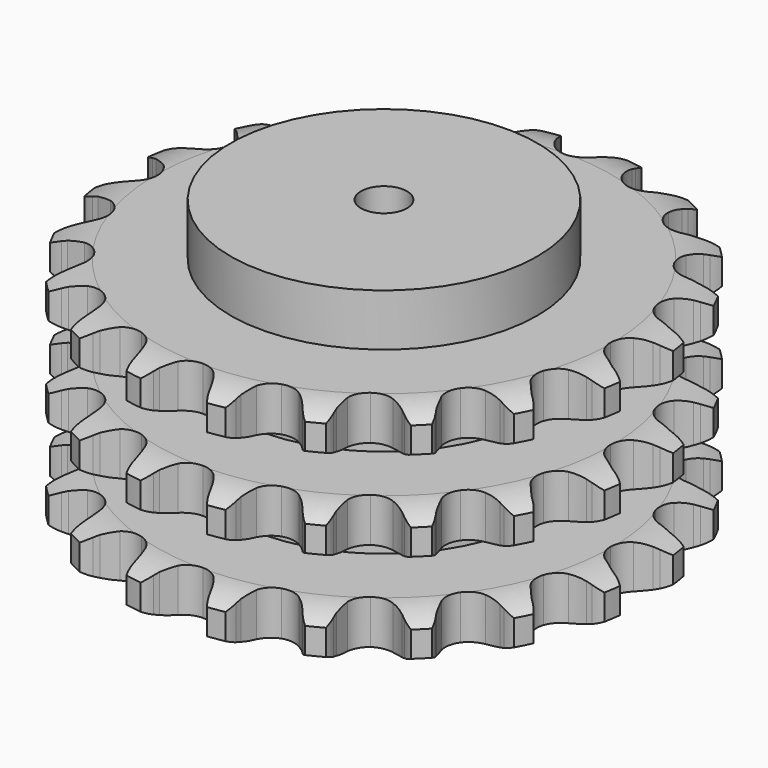
from build123d import *

# Parameters (mm, degrees)
PAD_DEPTH         = 146
SKETCH001_R       = 100
PAD001_DEPTH      = 180
SKETCH002_R       = 15
POCKET_DEPTH      = 0.001
POCKET_DEPTH_BACK = 180.001


with BuildPart() as part:
    # Sprocket → Pad (new body)
    with BuildSketch(Plane.XY):
        with BuildLine():
            ThreePointArc((-27.991264, 176.729888), (-22.13478, 171.8266), (-18.099926, 165.341187))
            Line((-18.099926, 165.341187), (-16.694116, 161.996897))
            ThreePointArc((-16.694116, 161.996897), (-14.433843, 157.483236), (-11.596465, 153.308161))
            ThreePointArc((-11.596465, 153.308161), (-6.451125, 149.141546), (0, 147.652187))
            ThreePointArc((0, 147.652187), (6.451125, 149.141546), (11.596465, 153.308161))
            ThreePointArc((11.596465, 153.308161), (14.433843, 157.483236), (16.694116, 161.996897))
            Line((16.694116, 161.996897), (18.099926, 165.341187))
            ThreePointArc((18.099926, 165.341187), (22.13478, 171.8266), (27.991264, 176.729888))
            ThreePointArc((27.991264, 176.729888), (32.045912, 170.256831), (33.879184, 162.841998))
            Line((33.879184, 162.841998), (34.182746, 159.22697))
            ThreePointArc((34.182746, 159.22697), (34.937596, 154.235761), (36.345934, 149.38823))
            ThreePointArc((36.345934, 149.38823), (39.951888, 143.835547), (45.627035, 140.425574))
            ThreePointArc((45.627035, 140.425574), (52.222656, 139.848532), (58.40372, 142.22122))
            Line((58.40372, 142.22122), (65.936842, 148.909439))
            ThreePointArc((65.936842, 148.909439), (67.089348, 150.310775), (68.307289, 151.655628))
            ThreePointArc((68.307289, 151.655628), (74.148767, 156.576784), (81.233813, 159.430335))
            ThreePointArc((81.233813, 159.430335), (83.089728, 152.021137), (82.541963, 144.402699))
            Line((82.541963, 144.402699), (81.713563, 140.870798))
            ThreePointArc((81.713563, 140.870798), (80.889099, 135.890614), (80.730539, 130.845138))
            ThreePointArc((80.730539, 130.845138), (82.444132, 124.449921), (86.787778, 119.453128))
            ThreePointArc((86.787778, 119.453128), (92.882271, 116.86617), (99.494013, 117.212676))
            Line((99.494013, 117.212676), (108.725211, 121.245688))
            ThreePointArc((108.725211, 121.245688), (110.254346, 122.222293), (111.828259, 123.12496))
            ThreePointArc((111.828259, 123.12496), (118.904555, 126.000142), (126.52463, 126.52463))
            ThreePointArc((126.52463, 126.52463), (126.000142, 118.904555), (123.12496, 111.828259))
            Line((123.12496, 111.828259), (121.245688, 108.725211))
            ThreePointArc((121.245688, 108.725211), (118.922614, 104.243548), (117.212676, 99.494013))
            ThreePointArc((117.212676, 99.494013), (116.86617, 92.882271), (119.453128, 86.787778))
            ThreePointArc((119.453128, 86.787778), (124.449921, 82.444132), (130.845138, 80.730539))
            Line((130.845138, 80.730539), (140.870798, 81.713563))
            ThreePointArc((140.870798, 81.713563), (142.626879, 82.169842), (144.402699, 82.541963))
            ThreePointArc((144.402699, 82.541963), (152.021137, 83.089728), (159.430335, 81.233813))
            ThreePointArc((159.430335, 81.233813), (156.576784, 74.148767), (151.655628, 68.307289))
            Line((151.655628, 68.307289), (148.909439, 65.936842))
            ThreePointArc((148.909439, 65.936842), (145.315155, 62.392397), (142.22122, 58.40372))
            ThreePointArc((142.22122, 58.40372), (139.848532, 52.222656), (140.425574, 45.627035))
            ThreePointArc((140.425574, 45.627035), (143.835547, 39.951888), (149.38823, 36.345934))
            Line((149.38823, 36.345934), (159.22697, 34.182746))
            ThreePointArc((159.22697, 34.182746), (161.038101, 34.074034), (162.841998, 33.879184))
            ThreePointArc((162.841998, 33.879184), (170.256831, 32.045912), (176.729888, 27.991264))
            ThreePointArc((176.729888, 27.991264), (171.8266, 22.13478), (165.341187, 18.099926))
            Line((165.341187, 18.099926), (161.996897, 16.694116))
            ThreePointArc((161.996897, 16.694116), (157.483236, 14.433843), (153.308161, 11.596465))
            ThreePointArc((153.308161, 11.596465), (149.141546, 6.451125), (147.652187, 0))
            ThreePointArc((147.652187, 0), (149.141546, -6.451125), (153.308161, -11.596465))
            Line((153.308161, -11.596465), (161.996897, -16.694116))
            ThreePointArc((161.996897, -16.694116), (163.68579, -17.357178), (165.341187, -18.099926))
            ThreePointArc((165.341187, -18.099926), (171.8266, -22.13478), (176.729888, -27.991264))
            ThreePointArc((176.729888, -27.991264), (170.256831, -32.045912), (162.841998, -33.879184))
            Line((162.841998, -33.879184), (159.22697, -34.182746))
            ThreePointArc((159.22697, -34.182746), (154.235761, -34.937596), (149.38823, -36.345934))
            ThreePointArc((149.38823, -36.345934), (143.835547, -39.951888), (140.425574, -45.627035))
            ThreePointArc((140.425574, -45.627035), (139.848532, -52.222656), (142.22122, -58.40372))
            Line((142.22122, -58.40372), (148.909439, -65.936842))
            ThreePointArc((148.909439, -65.936842), (150.310775, -67.089348), (151.655628, -68.307289))
            ThreePointArc((151.655628, -68.307289), (156.576784, -74.148767), (159.430335, -81.233813))
            ThreePointArc((159.430335, -81.233813), (152.021137, -83.089728), (144.402699, -82.541963))
            Line((144.402699, -82.541963), (140.870798, -81.713563))
            ThreePointArc((140.870798, -81.713563), (135.890614, -80.889099), (130.845138, -80.730539))
            ThreePointArc((130.845138, -80.730539), (124.449921, -82.444132), (119.453128, -86.787778))
            ThreePointArc((119.453128, -86.787778), (116.86617, -92.882271), (117.212676, -99.494013))
            Line((117.212676, -99.494013), (121.245688, -108.725211))
            ThreePointArc((121.245688, -108.725211), (122.222293, -110.254346), (123.12496, -111.828259))
            ThreePointArc((123.12496, -111.828259), (126.000142, -118.904555), (126.52463, -126.52463))
            ThreePointArc((126.52463, -126.52463), (118.904555, -126.000142), (111.828259, -123.12496))
            Line((111.828259, -123.12496), (108.725211, -121.245688))
            ThreePointArc((108.725211, -121.245688), (104.243548, -118.922614), (99.494013, -117.212676))
            ThreePointArc((99.494013, -117.212676), (92.882271, -116.86617), (86.787778, -119.453128))
            ThreePointArc((86.787778, -119.453128), (82.444132, -124.449921), (80.730539, -130.845138))
            Line((80.730539, -130.845138), (81.713563, -140.870798))
            ThreePointArc((81.713563, -140.870798), (82.169842, -142.626879), (82.541963, -144.402699))
            ThreePointArc((82.541963, -144.402699), (83.089728, -152.021137), (81.233813, -159.430335))
            ThreePointArc((81.233813, -159.430335), (74.148767, -156.576784), (68.307289, -151.655628))
            Line((68.307289, -151.655628), (65.936842, -148.909439))
            ThreePointArc((65.936842, -148.909439), (62.392397, -145.315155), (58.40372, -142.22122))
            ThreePointArc((58.40372, -142.22122), (52.222656, -139.848532), (45.627035, -140.425574))
            ThreePointArc((45.627035, -140.425574), (39.951888, -143.835547), (36.345934, -149.38823))
            Line((36.345934, -149.38823), (34.182746, -159.22697))
            ThreePointArc((34.182746, -159.22697), (34.074034, -161.038101), (33.879184, -162.841998))
            ThreePointArc((33.879184, -162.841998), (32.045912, -170.256831), (27.991264, -176.729888))
            ThreePointArc((27.991264, -176.729888), (22.13478, -171.8266), (18.099926, -165.341187))
            Line((18.099926, -165.341187), (16.694116, -161.996897))
            ThreePointArc((16.694116, -161.996897), (14.433843, -157.483236), (11.596465, -153.308161))
            ThreePointArc((11.596465, -153.308161), (6.451125, -149.141546), (0, -147.652187))
            ThreePointArc((0, -147.652187), (-6.451125, -149.141546), (-11.596465, -153.308161))
            Line((-11.596465, -153.308161), (-16.694116, -161.996897))
            ThreePointArc((-16.694116, -161.996897), (-17.357178, -163.68579), (-18.099926, -165.341187))
            ThreePointArc((-18.099926, -165.341187), (-22.13478, -171.8266), (-27.991264, -176.729888))
            ThreePointArc((-27.991264, -176.729888), (-32.045912, -170.256831), (-33.879184, -162.841998))
            Line((-33.879184, -162.841998), (-34.182746, -159.22697))
            ThreePointArc((-34.182746, -159.22697), (-34.937596, -154.235761), (-36.345934, -149.38823))
            ThreePointArc((-36.345934, -149.38823), (-39.951888, -143.835547), (-45.627035, -140.425574))
            ThreePointArc((-45.627035, -140.425574), (-52.222656, -139.848532), (-58.40372, -142.22122))
            Line((-58.40372, -142.22122), (-65.936842, -148.909439))
            ThreePointArc((-65.936842, -148.909439), (-67.089348, -150.310775), (-68.307289, -151.655628))
            ThreePointArc((-68.307289, -151.655628), (-74.148767, -156.576784), (-81.233813, -159.430335))
            ThreePointArc((-81.233813, -159.430335), (-83.089728, -152.021137), (-82.541963, -144.402699))
            Line((-82.541963, -144.402699), (-81.713563, -140.870798))
            ThreePointArc((-81.713563, -140.870798), (-80.889099, -135.890614), (-80.730539, -130.845138))
            ThreePointArc((-80.730539, -130.845138), (-82.444132, -124.449921), (-86.787778, -119.453128))
            ThreePointArc((-86.787778, -119.453128), (-92.882271, -116.86617), (-99.494013, -117.212676))
            Line((-99.494013, -117.212676), (-108.725211, -121.245688))
            ThreePointArc((-108.725211, -121.245688), (-110.254346, -122.222293), (-111.828259, -123.12496))
            ThreePointArc((-111.828259, -123.12496), (-118.904555, -126.000142), (-126.52463, -126.52463))
            ThreePointArc((-126.52463, -126.52463), (-126.000142, -118.904555), (-123.12496, -111.828259))
            Line((-123.12496, -111.828259), (-121.245688, -108.725211))
            ThreePointArc((-121.245688, -108.725211), (-118.922614, -104.243548), (-117.212676, -99.494013))
            ThreePointArc((-117.212676, -99.494013), (-116.86617, -92.882271), (-119.453128, -86.787778))
            ThreePointArc((-119.453128, -86.787778), (-124.449921, -82.444132), (-130.845138, -80.730539))
            Line((-130.845138, -80.730539), (-140.870798, -81.713563))
            ThreePointArc((-140.870798, -81.713563), (-142.626879, -82.169842), (-144.402699, -82.541963))
            ThreePointArc((-144.402699, -82.541963), (-152.021137, -83.089728), (-159.430335, -81.233813))
            ThreePointArc((-159.430335, -81.233813), (-156.576784, -74.148767), (-151.655628, -68.307289))
            Line((-151.655628, -68.307289), (-148.909439, -65.936842))
            ThreePointArc((-148.909439, -65.936842), (-145.315155, -62.392397), (-142.22122, -58.40372))
            ThreePointArc((-142.22122, -58.40372), (-139.848532, -52.222656), (-140.425574, -45.627035))
            ThreePointArc((-140.425574, -45.627035), (-143.835547, -39.951888), (-149.38823, -36.345934))
            Line((-149.38823, -36.345934), (-159.22697, -34.182746))
            ThreePointArc((-159.22697, -34.182746), (-161.038101, -34.074034), (-162.841998, -33.879184))
            ThreePointArc((-162.841998, -33.879184), (-170.256831, -32.045912), (-176.729888, -27.991264))
            ThreePointArc((-176.729888, -27.991264), (-171.8266, -22.13478), (-165.341187, -18.099926))
            Line((-165.341187, -18.099926), (-161.996897, -16.694116))
            ThreePointArc((-161.996897, -16.694116), (-157.483236, -14.433843), (-153.308161, -11.596465))
            ThreePointArc((-153.308161, -11.596465), (-149.141546, -6.451125), (-147.652187, 0))
            ThreePointArc((-147.652187, 0), (-149.141546, 6.451125), (-153.308161, 11.596465))
            Line((-153.308161, 11.596465), (-161.996897, 16.694116))
            ThreePointArc((-161.996897, 16.694116), (-163.68579, 17.357178), (-165.341187, 18.099926))
            ThreePointArc((-165.341187, 18.099926), (-171.8266, 22.13478), (-176.729888, 27.991264))
            ThreePointArc((-176.729888, 27.991264), (-170.256831, 32.045912), (-162.841998, 33.879184))
            Line((-162.841998, 33.879184), (-159.22697, 34.182746))
            ThreePointArc((-159.22697, 34.182746), (-154.235761, 34.937596), (-149.38823, 36.345934))
            ThreePointArc((-149.38823, 36.345934), (-143.835547, 39.951888), (-140.425574, 45.627035))
            ThreePointArc((-140.425574, 45.627035), (-139.848532, 52.222656), (-142.22122, 58.40372))
            Line((-142.22122, 58.40372), (-148.909439, 65.936842))
            ThreePointArc((-148.909439, 65.936842), (-150.310775, 67.089348), (-151.655628, 68.307289))
            ThreePointArc((-151.655628, 68.307289), (-156.576784, 74.148767), (-159.430335, 81.233813))
            ThreePointArc((-159.430335, 81.233813), (-152.021137, 83.089728), (-144.402699, 82.541963))
            Line((-144.402699, 82.541963), (-140.870798, 81.713563))
            ThreePointArc((-140.870798, 81.713563), (-135.890614, 80.889099), (-130.845138, 80.730539))
            ThreePointArc((-130.845138, 80.730539), (-124.449921, 82.444132), (-119.453128, 86.787778))
            ThreePointArc((-119.453128, 86.787778), (-116.86617, 92.882271), (-117.212676, 99.494013))
            Line((-117.212676, 99.494013), (-121.245688, 108.725211))
            ThreePointArc((-121.245688, 108.725211), (-122.222293, 110.254346), (-123.12496, 111.828259))
            ThreePointArc((-123.12496, 111.828259), (-126.000142, 118.904555), (-126.52463, 126.52463))
            ThreePointArc((-126.52463, 126.52463), (-118.904555, 126.000142), (-111.828259, 123.12496))
            Line((-111.828259, 123.12496), (-108.725211, 121.245688))
            ThreePointArc((-108.725211, 121.245688), (-104.243548, 118.922614), (-99.494013, 117.212676))
            ThreePointArc((-99.494013, 117.212676), (-92.882271, 116.86617), (-86.787778, 119.453128))
            ThreePointArc((-86.787778, 119.453128), (-82.444132, 124.449921), (-80.730539, 130.845138))
            Line((-80.730539, 130.845138), (-81.713563, 140.870798))
            ThreePointArc((-81.713563, 140.870798), (-82.169842, 142.626879), (-82.541963, 144.402699))
            ThreePointArc((-82.541963, 144.402699), (-83.089728, 152.021137), (-81.233813, 159.430335))
            ThreePointArc((-81.233813, 159.430335), (-74.148767, 156.576784), (-68.307289, 151.655628))
            Line((-68.307289, 151.655628), (-65.936842, 148.909439))
            ThreePointArc((-65.936842, 148.909439), (-62.392397, 145.315155), (-58.40372, 142.22122))
            ThreePointArc((-58.40372, 142.22122), (-52.222656, 139.848532), (-45.627035, 140.425574))
            ThreePointArc((-45.627035, 140.425574), (-39.951888, 143.835547), (-36.345934, 149.38823))
            Line((-36.345934, 149.38823), (-34.182746, 159.22697))
            ThreePointArc((-34.182746, 159.22697), (-34.074034, 161.038101), (-33.879184, 162.841998))
            ThreePointArc((-33.879184, 162.841998), (-32.045912, 170.256831), (-27.991264, 176.729888))
        make_face()
    extrude(amount=PAD_DEPTH)

    # Sketch → Groove (revolve, cut)
    with BuildSketch(Plane.XZ):
        with BuildLine():
            ThreePointArc((148.6, 0), (160.969317, 1.522732), (172.6, 6))
            Line((172.6, 6), (172.6, 22.8))
            ThreePointArc((172.6, 22.8), (160.969317, 27.277268), (148.6, 28.8))
            Line((100, 28.8), (148.6, 28.8))
            Line((100, 28.8), (100, 58.6))
            Line((100, 58.6), (148.6, 58.6))
            ThreePointArc((148.6, 58.6), (160.969317, 60.122732), (172.6, 64.6))
            Line((172.6, 81.4), (172.6, 64.6))
            ThreePointArc((172.6, 81.4), (160.969317, 85.877268), (148.6, 87.4))
            Line((100, 87.4), (148.6, 87.4))
            Line((100, 117.2), (100, 87.4))
            Line((148.6, 117.2), (100, 117.2))
            ThreePointArc((148.6, 117.2), (160.969317, 118.722732), (172.6, 123.2))
            Line((172.6, 123.2), (172.6, 140))
            ThreePointArc((172.6, 140), (160.969317, 144.477268), (148.6, 146))
            Line((148.6, 146), (182.6, 146))
            Line((182.6, 146), (182.6, 0))
            Line((148.6, 0), (182.6, 0))
        make_face()
    revolve(axis=Axis((0, 0, 0), (0, 0, 1)), mode=Mode.SUBTRACT)

    # Sketch001 → Pad001 (join)
    with BuildSketch(Plane.XY):
        Circle(SKETCH001_R)
    extrude(amount=PAD001_DEPTH)

    # Sketch002 → Pocket (cut, two sides)
    with BuildSketch(Plane.XY) as pocket_sk:
        Circle(SKETCH002_R)
    extrude(amount=-POCKET_DEPTH, mode=Mode.SUBTRACT)
    extrude(pocket_sk.sketch, amount=POCKET_DEPTH_BACK, mode=Mode.SUBTRACT)


solid = part.part
